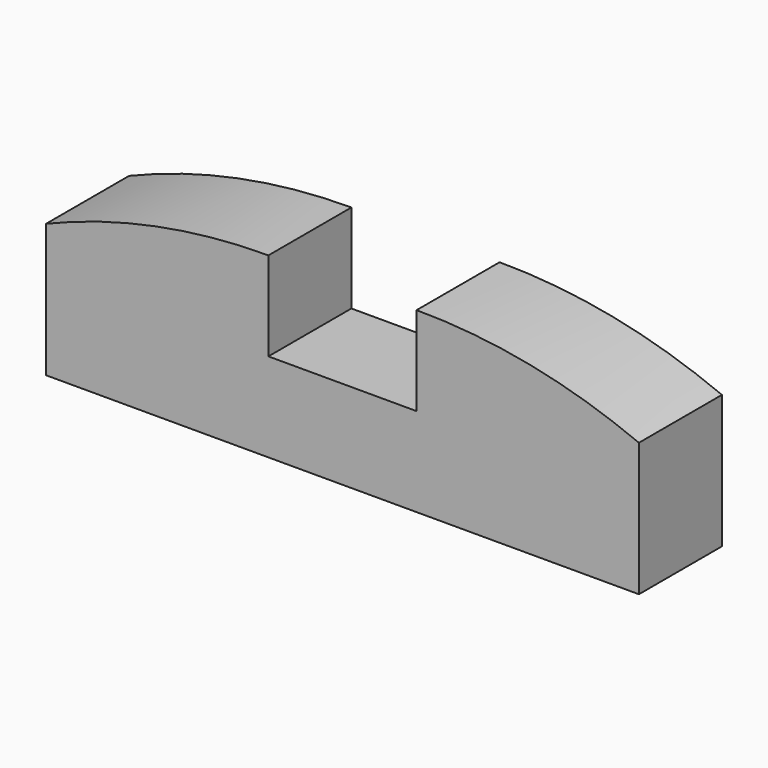
from build123d import *

# Parameters (mm, degrees)
F0_W     = 38.1
F0_H     = 17.78
F0_W_2   = 25.4
F1_DEPTH = 15.24
F2_DEPTH = 15.24
F4_DEPTH = 25.4


with BuildPart() as f1:
    # F0 (on Top) → F1 (new body)
    with BuildSketch(Plane.XY):
        with Locations((-19.05, -38.952387)):
            Rectangle(F0_W, F0_H)
        with Locations((12.7, -38.952387)):
            Rectangle(F0_W_2, F0_H)
        with Locations((44.45, -38.952387)):
            Rectangle(F0_W, F0_H)
    extrude(amount=-F1_DEPTH)

    # F0 (on Top) → F2 (join)
    with BuildSketch(Plane.XY):
        with Locations((-19.05, -38.952387)):
            Rectangle(F0_W, F0_H)
        with Locations((44.45, -38.952387)):
            Rectangle(F0_W, F0_H)
    extrude(amount=F2_DEPTH)

    # F3 (on face) → F4 (cut)
    with BuildSketch(Plane.XZ.offset(47.842387)):
        with BuildLine():
            ThreePointArc((-38.1, 7.62), (-19.427264, 13.316322), (0, 15.24))
            Line((0, 15.24), (-38.1, 15.24))
            Line((-38.1, 15.24), (-38.1, 7.62))
        make_face()
        with BuildLine():
            Line((63.5, 15.24), (25.4, 15.24))
            ThreePointArc((25.4, 15.24), (44.827264, 13.316322), (63.5, 7.62))
            Line((63.5, 7.62), (63.5, 15.24))
        make_face()
    extrude(amount=-F4_DEPTH, mode=Mode.SUBTRACT)


solid = f1.part
